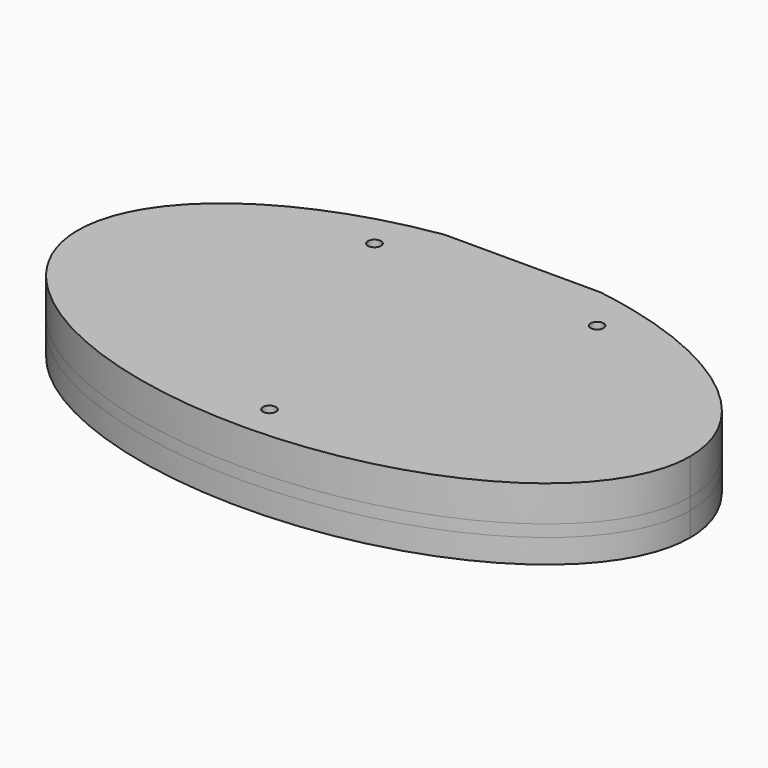
from build123d import *

# Parameters (mm, degrees)
BOX_BOTTOM_HALF_0_W     = 78.999568
BOX_BOTTOM_HALF_0_H     = 46.255487
BOX_BOTTOM_HALF_0_DEPTH = 5.5
PAD_DEPTH               = 6
POCKET_DEPTH            = 3
PAD001_DEPTH            = 3
SKETCH003_W             = 66
SKETCH003_H             = 2.77
POCKET001_DEPTH         = 3
SKETCH004_W             = 19.6
SKETCH004_H             = 1
POCKET002_DEPTH         = 9.001
SKETCH005_R             = 0.82
POCKET003_DEPTH         = 9.001


with BuildPart() as box_bottom_half_0_body:
    # box_bottom_half_0 → box_bottom_half_0 (new body)
    with BuildSketch(Plane(origin=(-39.499568, -23.496619, -4), x_dir=(1, 0, 0), z_dir=(0, 0, 1))):
        with Locations((39.499784, 23.127743)):
            Rectangle(BOX_BOTTOM_HALF_0_W, BOX_BOTTOM_HALF_0_H)
    extrude(amount=BOX_BOTTOM_HALF_0_DEPTH)


with BuildPart() as body:
    # Sketch → Pad (new body)
    with BuildSketch(Plane.XY):
        with BuildLine():
            add(Edge.make_bspline(
                [(38.5, 0), (38.5, 38.971143), (-19.25, 19.485572), (-77, 0), (-19.25, -19.485572), (38.5, -38.971143), (38.5, 0)],
                knots=[0, 0, 0, 2.094395, 2.094395, 4.18879, 4.18879, 6.283185, 6.283185, 6.283185], degree=2, weights=[1, 0.5, 1, 0.5, 1, 0.5, 1]))
        make_face()
    extrude(amount=PAD_DEPTH)

    # Sketch001 (on Face2 of Pad) → Pocket (cut)
    with BuildSketch(Plane(origin=(0, 0, 0), x_dir=(1, 0, 0), z_dir=(0, 0, -1))):
        Polygon((9.55, -3.696801), (9.55, -21.796801), (-9.55, -21.796801), (-9.55, -3.696801), (-33, -3.696801), (-33, 6.303199), (33, 6.303199), (33, -3.696801), align=None)
    extrude(amount=-POCKET_DEPTH, mode=Mode.SUBTRACT)

    # Sketch002 (on Face2 of Pocket) → Pad001 (join)
    with BuildSketch(Plane(origin=(0, 0, 0), x_dir=(1, 0, 0), z_dir=(0, 0, -1))):
        with BuildLine():
            add(Edge.make_bspline(
                [(38.5, 0), (38.5, 38.971143), (-19.25, 19.485572), (-77, 0), (-19.25, -19.485572), (38.5, -38.971143), (38.5, 0)],
                knots=[0, 0, 0, 2.094395, 2.094395, 4.18879, 4.18879, 6.283185, 6.283185, 6.283185], degree=2, weights=[1, 0.5, 1, 0.5, 1, 0.5, 1]))
        make_face()
    extrude(amount=PAD001_DEPTH)

    # Sketch003 (on Face4 of Pad001) → Pocket001 (cut)
    with BuildSketch(Plane(origin=(0, 0, -3), x_dir=(1, 0, 0), z_dir=(0, 0, -1))):
        with Locations((0, 1.303199)):
            Rectangle(SKETCH003_W, SKETCH003_H)
    extrude(amount=-POCKET001_DEPTH, mode=Mode.SUBTRACT)

    # Sketch004 (on Face4 of Pocket001) → Pocket002 (cut, through all)
    with BuildSketch(Plane(origin=(0, 0, -3), x_dir=(1, 0, 0), z_dir=(0, 0, -1))):
        with Locations((0, -22.258868)):
            Rectangle(SKETCH004_W, SKETCH004_H)
    extrude(amount=-POCKET002_DEPTH, mode=Mode.SUBTRACT)

    # Sketch005 (on Face4 of Pocket002) → Pocket003 (cut, through all)
    with BuildSketch(Plane.XY.offset(6)):
        with Locations((-14, 16)):
            Circle(SKETCH005_R)
        with Locations((14, 16)):
            Circle(SKETCH005_R)
        with Locations((0, -18)):
            Circle(SKETCH005_R)
    extrude(amount=-POCKET003_DEPTH, mode=Mode.SUBTRACT)


with BuildPart() as bottom_half_0_body:
    # bottom_half_0 base: copy of Body
    add(body.part)

    # bottom_half_0: intersect box_bottom_half_0 body
    add(box_bottom_half_0_body.part, mode=Mode.INTERSECT)


with BuildPart() as top_half_0_body:
    # top_half_0 base: copy of Body
    add(body.part)

    # top_half_0: cut box_bottom_half_0 body
    add(box_bottom_half_0_body.part, mode=Mode.SUBTRACT)


solid = Compound([bottom_half_0_body.part, top_half_0_body.part])
